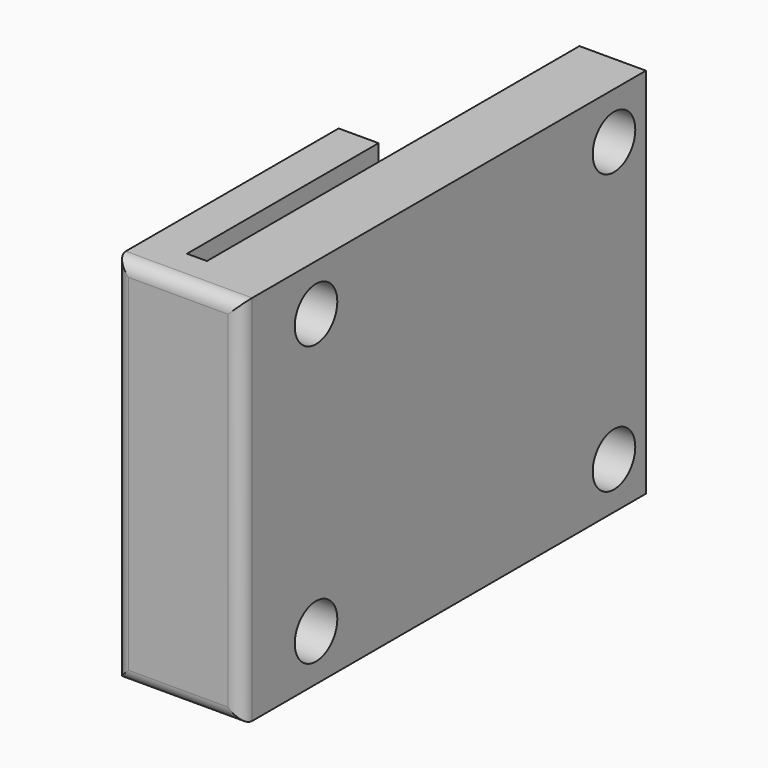
from build123d import *

# Parameters (mm, degrees)
PAD_DEPTH    = 28
SKETCH001_R  = 2
POCKET_DEPTH = 5
FILLET_R     = 1


with BuildPart() as part:
    # Sketch → Pad (new body)
    with BuildSketch(Plane.XY):
        Polygon((0, 0), (0, 21), (3, 21), (3, 3), (4.5, 3), (4.5, 38), (9.5, 38), (9.5, 0), align=None)
    extrude(amount=PAD_DEPTH)

    # Sketch001 (on Face7 of Pad) → Pocket (cut)
    with BuildSketch(Plane.YZ.offset(9.5)):
        with Locations((7, 24.5)):
            Circle(SKETCH001_R)
        with Locations((35, 24.5)):
            Circle(SKETCH001_R)
        with Locations((7, 3.5)):
            Circle(SKETCH001_R)
        with Locations((35, 3.5)):
            Circle(SKETCH001_R)
    extrude(amount=-POCKET_DEPTH, mode=Mode.SUBTRACT)

    # Fillet
    fillet_edges = [part.edges().sort_by_distance(p)[0] for p in [
        (9.5, 0, 14),
        (0, 0, 14),
        (4.75, 0, 0),
        (4.75, 0, 28),
    ]]
    fillet(fillet_edges, radius=FILLET_R)


solid = part.part
